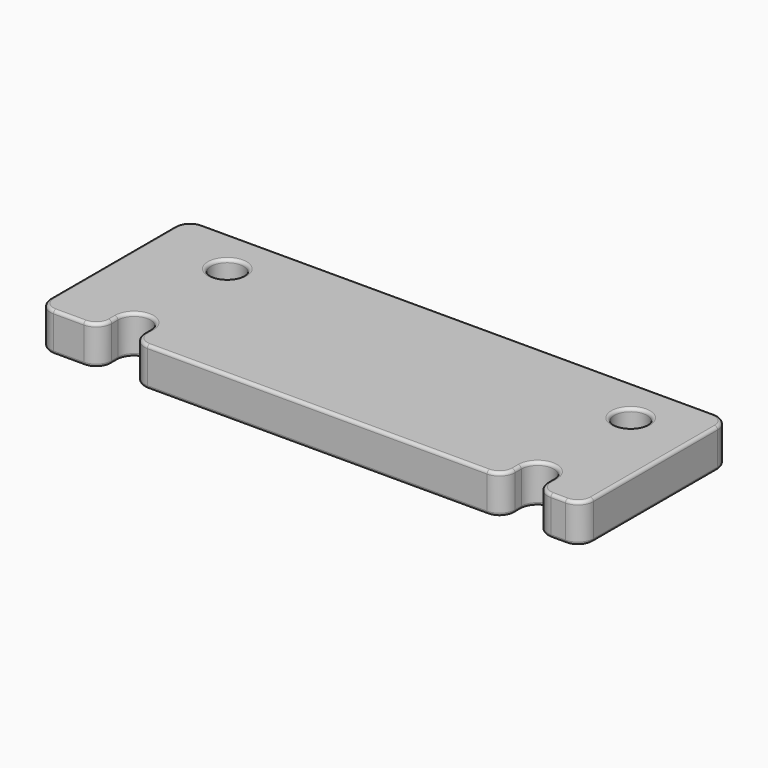
from build123d import *

# Parameters (mm, degrees)
CYLINDER001_R     = 2.1
CYLINDER001_DEPTH = 10
CYLINDER002_R     = 2.1
CYLINDER002_DEPTH = 10
CYLINDER003_R     = 2.1
CYLINDER003_DEPTH = 10
BOX001_W          = 4.2
BOX001_H          = 3
BOX001_DEPTH      = 10
BOX002_W          = 4.2
BOX002_H          = 3
BOX002_DEPTH      = 10
CYLINDER_R        = 2.1
CYLINDER_DEPTH    = 10
BOX_W             = 70
BOX_H             = 24
BOX_DEPTH         = 5
FILLET_R          = 2
FILLET001_R       = 0.4


with BuildPart() as zylinder001:
    # Cylinder001 → Cylinder001 (new body)
    with BuildSketch(Plane(origin=(-26, 3, 0), x_dir=(1, 0, 0), z_dir=(0, 0, 1))):
        Circle(CYLINDER001_R)
    extrude(amount=CYLINDER001_DEPTH)


with BuildPart() as zylinder002:
    # Cylinder002 → Cylinder002 (new body)
    with BuildSketch(Plane(origin=(-26, 18, 0), x_dir=(1, 0, 0), z_dir=(0, 0, 1))):
        Circle(CYLINDER002_R)
    extrude(amount=CYLINDER002_DEPTH)


with BuildPart() as zylinder003:
    # Cylinder003 → Cylinder003 (new body)
    with BuildSketch(Plane(origin=(26, 18, 0), x_dir=(1, 0, 0), z_dir=(0, 0, 1))):
        Circle(CYLINDER003_R)
    extrude(amount=CYLINDER003_DEPTH)


with BuildPart() as obj1:
    # Box001 → Box001 (new body)
    with BuildSketch(Plane(origin=(23.9, 0, 0), x_dir=(1, 0, 0), z_dir=(0, 0, 1))):
        with Locations((2.1, 1.5)):
            Rectangle(BOX001_W, BOX001_H)
    extrude(amount=BOX001_DEPTH)


with BuildPart() as obj2:
    # Box002 → Box002 (new body)
    with BuildSketch(Plane(origin=(-28.1, 0, 0), x_dir=(1, 0, 0), z_dir=(0, 0, 1))):
        with Locations((2.1, 1.5)):
            Rectangle(BOX002_W, BOX002_H)
    extrude(amount=BOX002_DEPTH)


with BuildPart() as zylinder:
    # Cylinder → Cylinder (new body)
    with BuildSketch(Plane(origin=(26, 3, 0), x_dir=(1, 0, 0), z_dir=(0, 0, 1))):
        Circle(CYLINDER_R)
    extrude(amount=CYLINDER_DEPTH)


with BuildPart() as fillet001:
    # Box → Box (new body)
    with BuildSketch(Plane(origin=(-36, 0, 0), x_dir=(1, 0, 0), z_dir=(0, 0, 1))):
        with Locations((35, 12)):
            Rectangle(BOX_W, BOX_H)
    extrude(amount=BOX_DEPTH)

    # Cut: cut Zylinder
    add(zylinder.part, mode=Mode.SUBTRACT)

    # Cut001: cut obj2
    add(obj2.part, mode=Mode.SUBTRACT)

    # Cut002: cut obj1
    add(obj1.part, mode=Mode.SUBTRACT)

    # Cut003: cut Zylinder003
    add(zylinder003.part, mode=Mode.SUBTRACT)

    # Cut004: cut Zylinder002
    add(zylinder002.part, mode=Mode.SUBTRACT)

    # Cut005: cut Zylinder001
    add(zylinder001.part, mode=Mode.SUBTRACT)

    # Fillet
    fillet_edges = [fillet001.edges().sort_by_distance(p)[0] for p in [
        (-36, 0, 2.5),
        (-36, 24, 2.5),
        (-28.1, 0, 2.5),
        (34, 24, 2.5),
        (34, 0, 2.5),
        (28.1, 0, 2.5),
        (23.9, 0, 2.5),
        (-23.9, 0, 2.5),
    ]]
    fillet(fillet_edges, radius=FILLET_R)

    # Fillet001
    fillet001_edges = [fillet001.edges().sort_by_distance(p)[0] for p in [
        (-36, 12, 5),
        (-36, 12, 0),
        (34, 12, 5),
        (33.414214, 23.414214, 5),
        (-1, 24, 5),
        (-35.414214, 23.414214, 5),
        (-35.414214, 0.585786, 5),
        (-32.05, 0, 5),
        (-28.685786, 0.585786, 5),
        (-28.1, 2.5, 5),
        (-26, 5.1, 5),
        (-23.9, 2.5, 5),
        (-23.314214, 0.585786, 5),
        (0, 0, 5),
        (23.314214, 0.585786, 5),
        (23.9, 2.5, 5),
        (26, 5.1, 5),
        (28.1, 2.5, 5),
        (28.685786, 0.585786, 5),
        (31.05, 0, 5),
        (33.414214, 0.585786, 5),
        (-28.1, 18, 5),
        (23.9, 18, 5),
        (-35.414214, 0.585786, 0),
        (-35.414214, 23.414214, 0),
        (34, 12, 0),
        (33.414214, 23.414214, 0),
        (-1, 24, 0),
        (-32.05, 0, 0),
        (-28.685786, 0.585786, 0),
        (-28.1, 2.5, 0),
        (-26, 5.1, 0),
        (-23.9, 2.5, 0),
        (-23.314214, 0.585786, 0),
        (0, 0, 0),
        (23.314214, 0.585786, 0),
        (23.9, 2.5, 0),
        (26, 5.1, 0),
        (28.685786, 0.585786, 0),
        (31.05, 0, 0),
        (33.414214, 0.585786, 0),
        (-28.1, 18, 0),
        (23.9, 18, 0),
    ]]
    fillet(fillet001_edges, radius=FILLET001_R)


solid = fillet001.part
